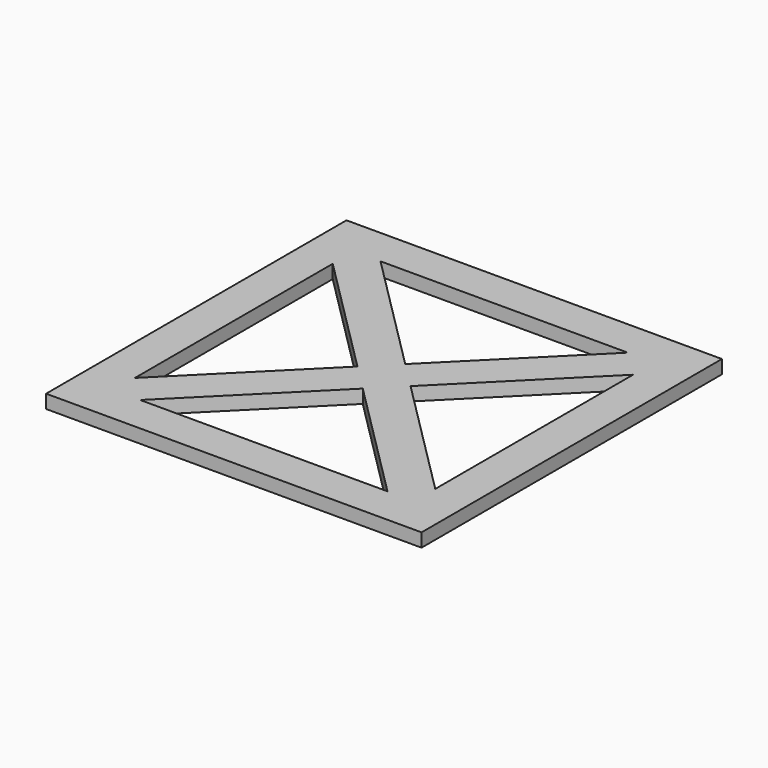
from build123d import *

# Parameters (mm, degrees)
F0_W     = 50
F0_H     = 50
F1_DEPTH = 1.8


with BuildPart() as f1:
    # F0 (on Top) → F1 (new body)
    with BuildSketch(Plane.XY):
        Rectangle(F0_W, F0_H)
        Polygon((20, -16.4644660941), (20, -20), (16.4644660941, -20), (-16.4644660941, -20), (-20, -20), (-20, -16.4644660941), (-20, 16.4644660941), (-20, 20), (-16.4644660941, 20), (16.4644660941, 20), (20, 20), (20, 16.4644660941), align=None, mode=Mode.SUBTRACT)
        Polygon((-20, 16.4644660941), (-3.5355339059, 0), (0, 3.5355339059), (-16.4644660941, 20), (-20, 20), align=None)
        Polygon((16.4644660941, -20), (20, -20), (20, -16.4644660941), (3.5355339059, 0), (0, -3.5355339059), align=None)
        Polygon((-3.5355339059, 0), (0, -3.5355339059), (3.5355339059, 0), (0, 3.5355339059), align=None)
        Polygon((3.5355339059, 0), (20, 16.4644660941), (20, 20), (16.4644660941, 20), (0, 3.5355339059), align=None)
        Polygon((-20, -20), (-16.4644660941, -20), (0, -3.5355339059), (-3.5355339059, 0), (-20, -16.4644660941), align=None)
    extrude(amount=F1_DEPTH)


solid = f1.part
